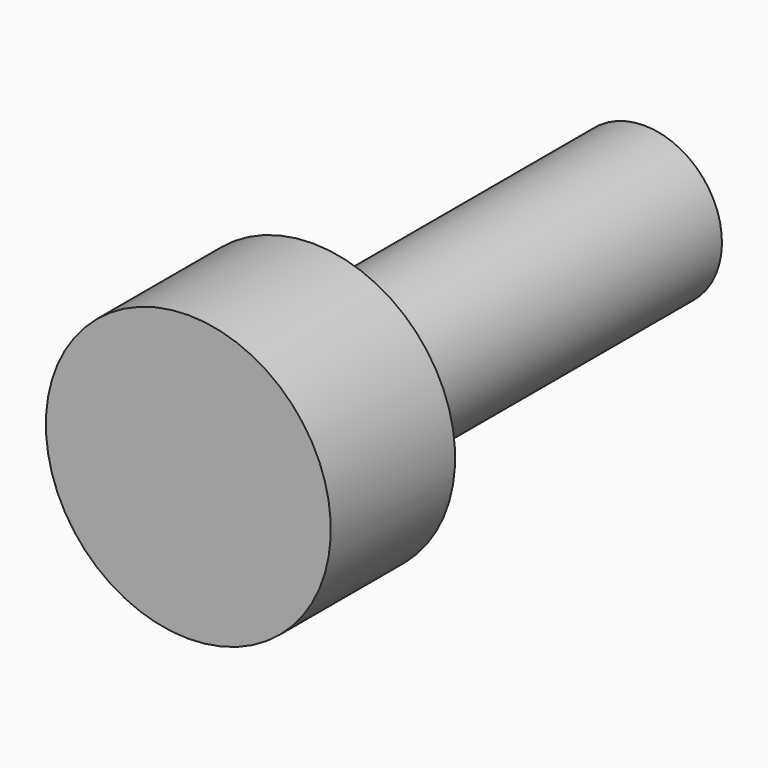
from build123d import *


with BuildPart() as part:
    # Sketch → Revolution (revolve)
    with BuildSketch(Plane.YZ):
        Polygon((-3, 0), (-3, 2.75), (0, 2.75), (0, 1.5), (8, 1.5), (8, 0), align=None)
    revolve(axis=Axis((0, 0, 0), (0, 1, 0)))


solid = part.part
